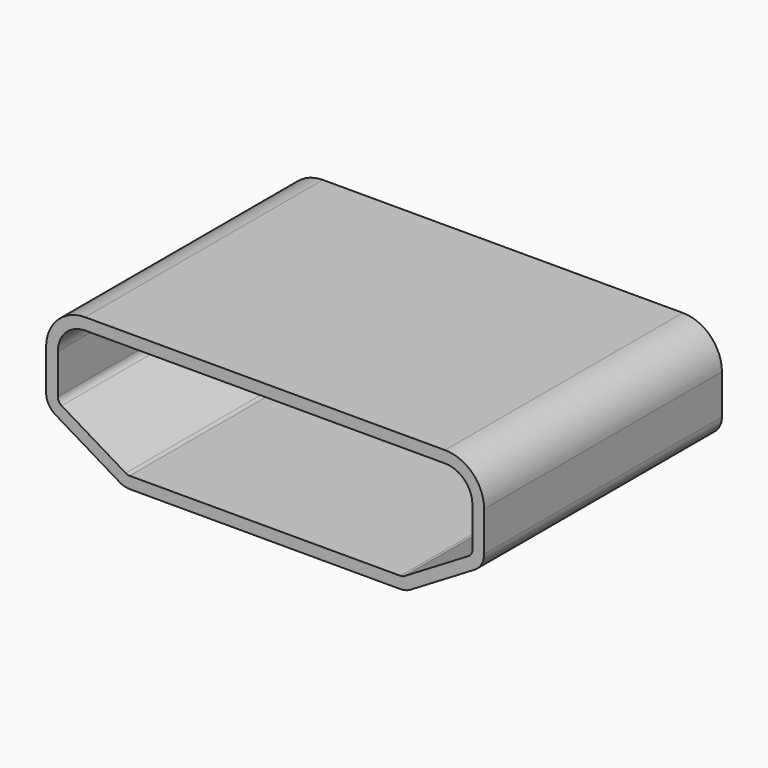
from build123d import *

# Parameters (mm, degrees)
PAD004_DEPTH      = 0.6
PAD004_DEPTH_BACK = 7
FILLET001_R       = 1
FILLET002_R       = 0.5
THICKNESS002_T    = -0.3


with BuildPart() as part:
    # Sketch006 (on Face1 of ReferenceLinearPattern004) → Pad004 (new body, two sides)
    with BuildSketch(Plane.XZ) as pad004_sk:
        Polygon((18, 4.5), (6.8, 4.5), (6.8, 2.2), (8.8, 1), (16, 1), (18, 2.2), align=None)
    extrude(amount=PAD004_DEPTH)
    extrude(pad004_sk.sketch, amount=-PAD004_DEPTH_BACK)

    # Fillet001
    fillet001_edges = [part.edges().sort_by_distance(p)[0] for p in [
        (6.8, 3.2, 4.5),
        (18, 3.2, 4.5),
    ]]
    fillet(fillet001_edges, radius=FILLET001_R)

    # Fillet002
    fillet002_edges = [part.edges().sort_by_distance(p)[0] for p in [
        (6.8, 3.2, 2.2),
        (8.8, 3.2, 1),
        (16, 3.2, 1),
        (18, 3.2, 2.2),
    ]]
    fillet(fillet002_edges, radius=FILLET002_R)

    # Thickness002
    thickness002_openings = [part.faces().sort_by_distance(p)[0] for p in [
        (12.4, -0.6, 2.821651),
    ]]
    offset(amount=THICKNESS002_T, openings=thickness002_openings)


solid = part.part
